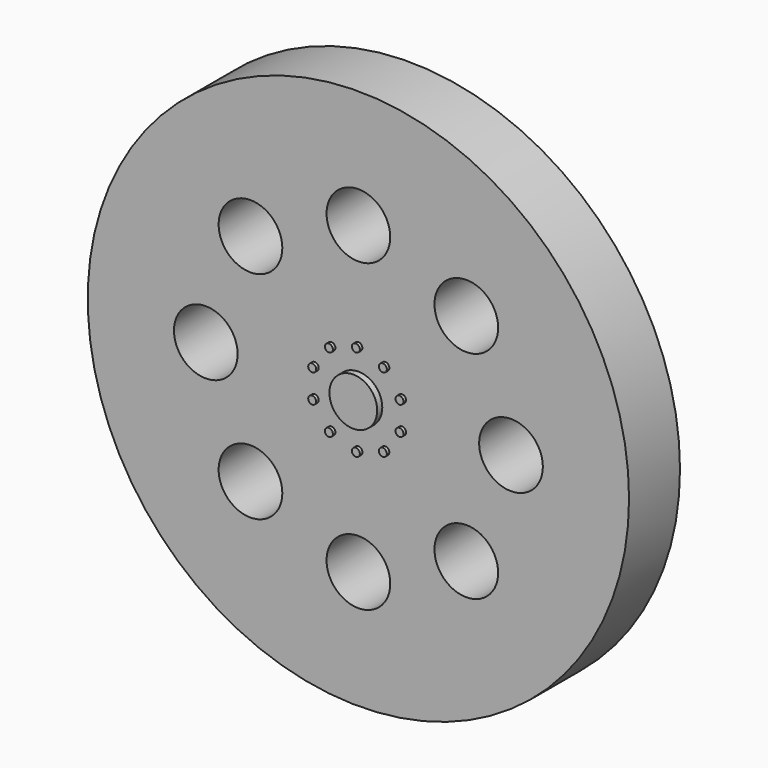
from build123d import *

# Parameters (mm, degrees)
F0_R     = 17
F1_DEPTH = 2
F2_R     = 2
F3_DEPTH = 4
F4_R     = 0.25
F5_DEPTH = 0.2
F6_R     = 1.5
F7_DEPTH = 0.4


with BuildPart() as f1:
    # F0 (on Front) → F1 (new body, symmetric)
    with BuildSketch(Plane.XZ):
        Circle(F0_R)
    extrude(amount=F1_DEPTH, both=True)

    # F2 (on face) → F3 (cut)
    with BuildSketch(Plane.XZ.offset(2)):
        with Locations((-6.778185, 6.778185)):
            Circle(F2_R)
        with Locations((-9.5858, 0)):
            Circle(F2_R)
        with Locations((-6.778185, -6.778185)):
            Circle(F2_R)
        with Locations((0, -9.5858)):
            Circle(F2_R)
        with Locations((6.778185, -6.778185)):
            Circle(F2_R)
        with Locations((9.5858, 0)):
            Circle(F2_R)
        with Locations((6.778185, 6.778185)):
            Circle(F2_R)
        with Locations((0, 9.5858)):
            Circle(F2_R)
    extrude(amount=-F3_DEPTH, mode=Mode.SUBTRACT)

    # F4 (on face) → F5 (join)
    with BuildSketch(Plane.XZ.offset(2)):
        with Locations((-2.741827, 0.890874)):
            Circle(F4_R)
        with Locations((-2.741827, -0.890874)):
            Circle(F4_R)
        with Locations((-1.694542, -2.332337)):
            Circle(F4_R)
        with Locations((0, -2.882927)):
            Circle(F4_R)
        with Locations((1.694542, -2.332337)):
            Circle(F4_R)
        with Locations((2.741827, -0.890874)):
            Circle(F4_R)
        with Locations((2.741827, 0.890874)):
            Circle(F4_R)
        with Locations((1.694542, 2.332337)):
            Circle(F4_R)
        with Locations((0, 2.882927)):
            Circle(F4_R)
        with Locations((-1.694542, 2.332337)):
            Circle(F4_R)
    extrude(amount=F5_DEPTH)

    # F6 (on face) → F7 (join)
    with BuildSketch(Plane.XZ.offset(2)):
        Circle(F6_R)
    extrude(amount=F7_DEPTH)


solid = f1.part
